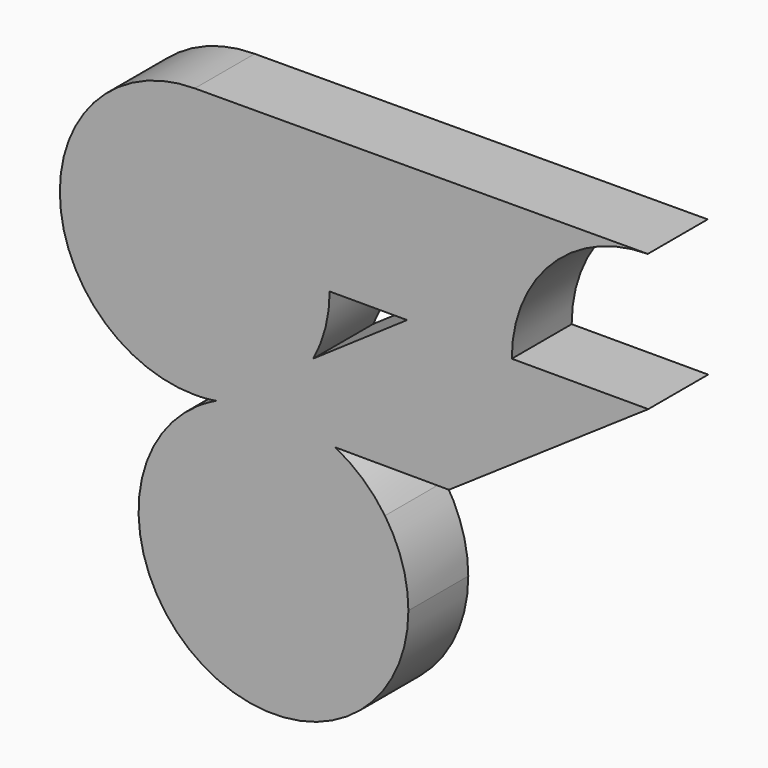
from build123d import *

# Parameters (mm, degrees)
F1_DEPTH = 25.4


with BuildPart() as f1:
    # F0 (on Front) → F1 (new body)
    with BuildSketch(Plane.XZ):
        with BuildLine():
            Line((72.0466873491, 0), (40.2231729678, -21.8466586519))
            ThreePointArc((40.2231729678, -21.8466586519), (31.3848696272, -33.3192151219), (19.4048266012, -41.4563968819))
            ThreePointArc((19.4048266012, -41.4563968819), (33.8870469148, -41.4351204215), (47.6510526714, -45.9392633402))
            Line((47.6510526714, -45.9392633402), (86.2514989391, -46.0738358679))
            Line((86.2514989391, -46.0738358679), (115.6003371528, -26.0762075411))
            ThreePointArc((115.6003371528, -26.0762075411), (109.6163777827, -13.6436900901), (107.560902013, 0))
            Line((107.560902013, 0), (72.0466873491, 0))
        make_face()
        with BuildLine():
            Line((127.6607268874, 38.1787166397), (72.0466873491, 0))
            Line((72.0466873491, 0), (107.560902013, 0))
            ThreePointArc((107.560902013, 0), (112.8928076077, 21.5732320494), (127.6607268874, 38.1787166397))
        make_face()
        with BuildLine():
            ThreePointArc((47.6510526714, -45.9392633402), (33.8870469148, -41.4351204215), (19.4048266012, -41.4563968819))
            ThreePointArc((19.4048266012, -41.4563968819), (13.4857274503, -43.7414596577), (7.3075106005, -45.1860645185))
            ThreePointArc((7.3075106005, -45.1860645185), (6.6804139573, -45.4854183946), (6.0579339451, -45.7942574747))
            Line((6.0579339451, -45.7942574747), (47.6510526714, -45.9392633402))
        make_face()
        with BuildLine():
            ThreePointArc((64.5391180148, -60.8681565374), (57.0284030969, -52.3479095519), (47.6510526714, -45.9392633402))
            Line((47.6510526714, -45.9392633402), (6.0579339451, -45.7942574747))
            ThreePointArc((6.0579339451, -45.7942574747), (3.4488790791, -47.2217605692), (0.9380323387, -48.8156805874))
            ThreePointArc((0.9380323387, -48.8156805874), (-11.1144436113, -112.4167662635), (52.4866420648, -124.4692422135))
            ThreePointArc((52.4866420648, -124.4692422135), (67.1780692741, -108.036494814), (72.4854749339, -86.6424614004))
            ThreePointArc((72.4854749339, -86.6424614004), (70.4537968594, -73.1567339501), (64.5391180148, -60.8681565374))
        make_face()
        with BuildLine():
            Line((153.8701951504, 0), (107.560902013, 0))
            ThreePointArc((107.560902013, 0), (109.6163777827, -13.6436900901), (115.6003371528, -26.0762075411))
            Line((115.6003371528, -26.0762075411), (153.8701951504, 0))
        make_face()
        with BuildLine():
            ThreePointArc((40.2231729678, -21.8466586519), (44.3639548177, -11.2702994984), (45.7731377322, 0))
            ThreePointArc((45.7731377322, 0), (32.3664960866, 32.3664960866), (0, 45.7731377322))
            ThreePointArc((0, 45.7731377322), (-45.7731377322, 0), (0, -45.7731377322))
            ThreePointArc((0, -45.7731377322), (2.9724733003, -45.676520668), (5.932398121, -45.3870773501))
            Line((5.932398121, -45.3870773501), (40.2231729678, -21.8466586519))
        make_face()
        with BuildLine():
            ThreePointArc((0, 45.7731377322), (32.3664960866, 32.3664960866), (45.7731377322, 0))
            Line((45.7731377322, 0), (72.0466873491, 0))
            Line((72.0466873491, 0), (127.6607268874, 38.1787166397))
            ThreePointArc((127.6607268874, 38.1787166397), (140.0723070667, 44.2059828), (153.7087482925, 46.3090117126))
            Line((153.7087482925, 46.3090117126), (0, 45.7731377322))
        make_face()
        with BuildLine():
            ThreePointArc((19.4048266012, -41.4563968819), (31.3848696272, -33.3192151219), (40.2231729678, -21.8466586519))
            Line((40.2231729678, -21.8466586519), (5.932398121, -45.3870773501))
            ThreePointArc((5.932398121, -45.3870773501), (6.6207172783, -45.2917899908), (7.3075106005, -45.1860645185))
            ThreePointArc((7.3075106005, -45.1860645185), (13.2266097514, -42.9010017427), (19.4048266012, -41.4563968819))
        make_face()
        with BuildLine():
            ThreePointArc((7.3075106005, -45.1860645185), (13.4857274503, -43.7414596577), (19.4048266012, -41.4563968819))
            ThreePointArc((19.4048266012, -41.4563968819), (13.2266097514, -42.9010017427), (7.3075106005, -45.1860645185))
        make_face()
    extrude(amount=F1_DEPTH)


solid = f1.part
